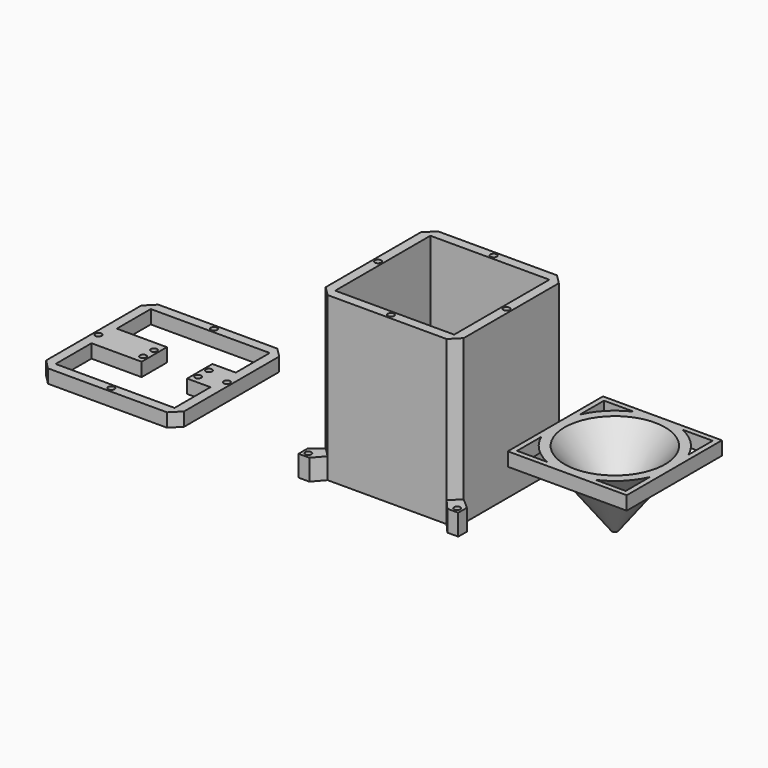
from build123d import *

# Parameters (mm, degrees)
F0_R     = 2.3115
F1_DEPTH = 120
F2_DEPTH = 15.5
F3_DEPTH = 12
F7_DEPTH = 10
F0_W     = 36.9
F0_H     = 12.517743744
F0_R_2   = 2.275
F0_H_2   = 10.7417148538
F0_W_2   = 17.2
F8_DEPTH = 10


with BuildPart() as f1:
    # F0 (on Top) → F1 (new body)
    with BuildSketch(Plane.XY):
        Polygon((38.1957582593, 51.4588206172), (-49.4042417407, 51.4588206172), (-56.4042417407, 44.4588206172), (-56.4042417407, -43.1411793828), (-49.4042417407, -50.1411793828), (38.1957582593, -50.1411793828), (45.1957582593, -43.1411793828), (45.1957582593, 44.4588206172), align=None)
        with Locations((-5.6042417407, -46.6411793828)):
            Circle(F0_R, mode=Mode.SUBTRACT)
        with Locations((-52.9042417407, 0.6588206172)):
            Circle(F0_R, mode=Mode.SUBTRACT)
        Polygon((-49.4042417407, 0.6588205268), (-49.4042417407, 44.4588206172), (-5.6042418869, 44.4588206172), (38.1957582593, 44.4588206172), (38.1957582593, 0.6588206172), (38.1957582593, -43.1411793828), (-5.6042419214, -43.1411793828), (-49.4042417407, -43.1411793828), align=None, mode=Mode.SUBTRACT)
        with Locations((41.6957582593, 0.6588206172)):
            Circle(F0_R, mode=Mode.SUBTRACT)
        with Locations((-5.6042417407, 47.9588206172)):
            Circle(F0_R, mode=Mode.SUBTRACT)
    extrude(amount=F1_DEPTH)

    # F0 (on Top) → F2 (join)
    with BuildSketch(Plane.XY):
        Polygon((-49.4042417407, -50.1411793828), (-56.4042417407, -43.1411793828), (-64.4042417407, -50.1411793828), (-64.4042417407, -58.1411793828), (-56.4042417407, -58.1411793828), align=None)
        with Locations((-60.4042417407, -54.1411793828)):
            Circle(F0_R, mode=Mode.SUBTRACT)
        Polygon((53.1957582593, -50.1411793828), (45.1957582593, -43.1411793828), (38.1957582593, -50.1411793828), (45.1957582593, -58.1411793828), (53.1957582593, -58.1411793828), align=None)
        with Locations((49.1957582593, -54.1411793828)):
            Circle(F0_R, mode=Mode.SUBTRACT)
        Polygon((45.1957582593, 59.4588206172), (38.1957582593, 51.4588206172), (45.1957582593, 44.4588206172), (53.1957582593, 51.4588206172), (53.1957582593, 59.4588206172), align=None)
        with Locations((49.1957582593, 55.4588206172)):
            Circle(F0_R, mode=Mode.SUBTRACT)
        Polygon((-56.4042417407, 44.4588206172), (-49.4042417407, 51.4588206172), (-56.4042417407, 59.4588206172), (-64.4042417407, 59.4588206172), (-64.4042417407, 51.4588206172), align=None)
        with Locations((-60.4042417407, 55.4588206172)):
            Circle(F0_R, mode=Mode.SUBTRACT)
    extrude(amount=F2_DEPTH)

    # F0 (on Top) → F3 (join)
    with BuildSketch(Plane.XY):
        with BuildLine():
            Line((-5.6042418869, 44.4588206172), (-49.4042417407, 44.4588206172))
            Line((-49.4042417407, 44.4588206172), (-49.4042417407, 0.6588205268))
            ThreePointArc((-49.4042417407, 0.6588205268), (-36.5755188403, 31.6300975495), (-5.6042418869, 44.4588206172))
        make_face()
        with BuildLine():
            Line((38.1957582593, 44.4588206172), (-5.6042418869, 44.4588206172))
            ThreePointArc((-5.6042418869, 44.4588206172), (25.3670352236, 31.6300976849), (38.1957582593, 0.6588206172))
            Line((38.1957582593, 0.6588206172), (38.1957582593, 44.4588206172))
        make_face()
        with BuildLine():
            Line((38.1957582593, -43.1411793828), (38.1957582593, 0.6588206172))
            ThreePointArc((38.1957582593, 0.6588206172), (25.3670352114, -30.3124564627), (-5.6042419214, -43.1411793828))
            Line((-5.6042419214, -43.1411793828), (38.1957582593, -43.1411793828))
        make_face()
        with BuildLine():
            ThreePointArc((-5.6042419214, -43.1411793828), (-36.5755187886, -30.3124563668), (-49.4042417407, 0.6588205268))
            Line((-49.4042417407, 0.6588205268), (-49.4042417407, -43.1411793828))
            Line((-49.4042417407, -43.1411793828), (-5.6042419214, -43.1411793828))
        make_face()
    extrude(amount=F3_DEPTH)


with BuildPart() as f5:
    # F4 (on Front) → F5 (revolve)
    with BuildSketch(Plane.XZ):
        Polygon((85.0406363606, 57.6332304992), (78.1967509026, 57.6332304992), (119.88039563, 2.784757791), (119.88039563, 11.7901282959), align=None)
    revolve(axis=Axis((121.9967509026, 0, 28.8166152496), (0, 0, -1)))

    # F6 (on face) → F7 (join)
    with BuildSketch(Plane.XY.offset(57.6332304992)):
        with BuildLine():
            Line((165.7967509026, 0), (165.7967509026, 43.8))
            Line((165.7967509026, 43.8), (121.9967508123, 43.8))
            ThreePointArc((121.9967508123, 43.8), (131.1192505159, 42.8394677932), (139.8416381256, 40))
            Line((139.8416381256, 40), (161.9967509026, 40))
            Line((161.9967509026, 40), (161.9967509026, 17.844887223))
            ThreePointArc((161.9967509026, 17.844887223), (164.8362186864, 9.1224996574), (165.7967509026, 0))
        make_face()
        with BuildLine():
            ThreePointArc((104.1518636797, 40), (112.874251201, 42.8394677744), (121.9967508123, 43.8))
            Line((121.9967508123, 43.8), (78.1967509026, 43.8))
            Line((78.1967509026, 43.8), (78.1967509026, 0))
            ThreePointArc((78.1967509026, 0), (79.1572831188, 9.1224996574), (81.9967509026, 17.844887223))
            Line((81.9967509026, 17.844887223), (81.9967509026, 40))
            Line((81.9967509026, 40), (104.1518636797, 40))
        make_face()
        with BuildLine():
            ThreePointArc((81.9967509026, 17.844887223), (79.1572831188, 9.1224996574), (78.1967509026, 0))
            ThreePointArc((78.1967509026, 0), (79.1572831188, -9.1224996574), (81.9967509026, -17.844887223))
            Line((81.9967509026, -17.844887223), (81.9967509026, 17.844887223))
        make_face()
        with BuildLine():
            ThreePointArc((81.9967509026, -17.844887223), (79.1572831188, -9.1224996574), (78.1967509026, 0))
            Line((78.1967509026, 0), (78.1967509026, -43.8))
            Line((78.1967509026, -43.8), (121.996750993, -43.8))
            ThreePointArc((121.996750993, -43.8), (112.8742512894, -42.8394677932), (104.1518636797, -40))
            Line((104.1518636797, -40), (81.9967509026, -40))
            Line((81.9967509026, -40), (81.9967509026, -17.844887223))
        make_face()
        with BuildLine():
            Line((165.7967509026, -43.8), (165.7967509026, 0))
            ThreePointArc((165.7967509026, 0), (164.8362186864, -9.1224996574), (161.9967509026, -17.844887223))
            Line((161.9967509026, -17.844887223), (161.9967509026, -40))
            Line((161.9967509026, -40), (139.8416381256, -40))
            ThreePointArc((139.8416381256, -40), (131.1192506042, -42.8394677744), (121.996750993, -43.8))
            Line((121.996750993, -43.8), (165.7967509026, -43.8))
        make_face()
        with BuildLine():
            ThreePointArc((104.1518636797, -40), (112.8742512894, -42.8394677932), (121.996750993, -43.8))
            ThreePointArc((121.996750993, -43.8), (131.1192506042, -42.8394677744), (139.8416381256, -40))
            Line((139.8416381256, -40), (104.1518636797, -40))
        make_face()
        with BuildLine():
            ThreePointArc((139.8416381256, 40), (131.1192505159, 42.8394677932), (121.9967508123, 43.8))
            ThreePointArc((121.9967508123, 43.8), (112.874251201, 42.8394677744), (104.1518636797, 40))
            Line((104.1518636797, 40), (139.8416381256, 40))
        make_face()
        with BuildLine():
            ThreePointArc((161.9967509026, -17.844887223), (164.8362186864, -9.1224996574), (165.7967509026, 0))
            ThreePointArc((165.7967509026, 0), (164.8362186864, 9.1224996574), (161.9967509026, 17.844887223))
            Line((161.9967509026, 17.844887223), (161.9967509026, -17.844887223))
        make_face()
    extrude(amount=-F7_DEPTH)


with BuildPart() as f8:
    # F0 (on Top) → F8 (new body)
    with BuildSketch(Plane.XY):
        Polygon((-162.3358094215, 44.758091829), (-249.9358094215, 44.758091829), (-256.9358094215, 37.758091829), (-256.9358094215, -49.841908171), (-249.9358094215, -56.841908171), (-162.3358094215, -56.841908171), (-155.3358094215, -49.841908171), (-155.3358094215, 37.758091829), align=None)
        with Locations((-206.1358094215, -53.341908171)):
            Circle(F0_R, mode=Mode.SUBTRACT)
        with Locations((-253.4358094215, -6.041908171)):
            Circle(F0_R, mode=Mode.SUBTRACT)
        Polygon((-249.9358094215, 6.4758355729), (-249.9358094215, 37.758091829), (-162.3358094215, 37.758091829), (-162.3358094215, 6.4758355729), (-162.3358094215, -6.041908171), (-162.3358094215, -16.7836230248), (-162.3358094215, -49.841908171), (-249.9358094215, -49.841908171), (-249.9358094215, -16.7836230248), (-249.9358094215, -6.041908171), align=None, mode=Mode.SUBTRACT)
        with Locations((-158.8358094215, -6.041908171)):
            Circle(F0_R, mode=Mode.SUBTRACT)
        with Locations((-206.1358094215, 41.258091829)):
            Circle(F0_R, mode=Mode.SUBTRACT)
        with Locations((-231.4858094215, 0.216963701)):
            Rectangle(F0_W, F0_H)
        with Locations((-216.5358094215, -1.041908171)):
            Circle(F0_R_2, mode=Mode.SUBTRACT)
        with Locations((-231.4858094215, -11.4127655979)):
            Rectangle(F0_W, F0_H_2)
        with Locations((-216.5358094215, -11.041908171)):
            Circle(F0_R_2, mode=Mode.SUBTRACT)
        with Locations((-170.9358094215, 0.216963701)):
            Rectangle(F0_W_2, F0_H)
        with Locations((-176.0358094215, -1.041908171)):
            Circle(F0_R_2, mode=Mode.SUBTRACT)
        with Locations((-170.9358094215, -11.4127655979)):
            Rectangle(F0_W_2, F0_H_2)
        with Locations((-176.0358094215, -11.041908171)):
            Circle(F0_R_2, mode=Mode.SUBTRACT)
    extrude(amount=F8_DEPTH)


solid = Compound([f1.part, f5.part, f8.part])
